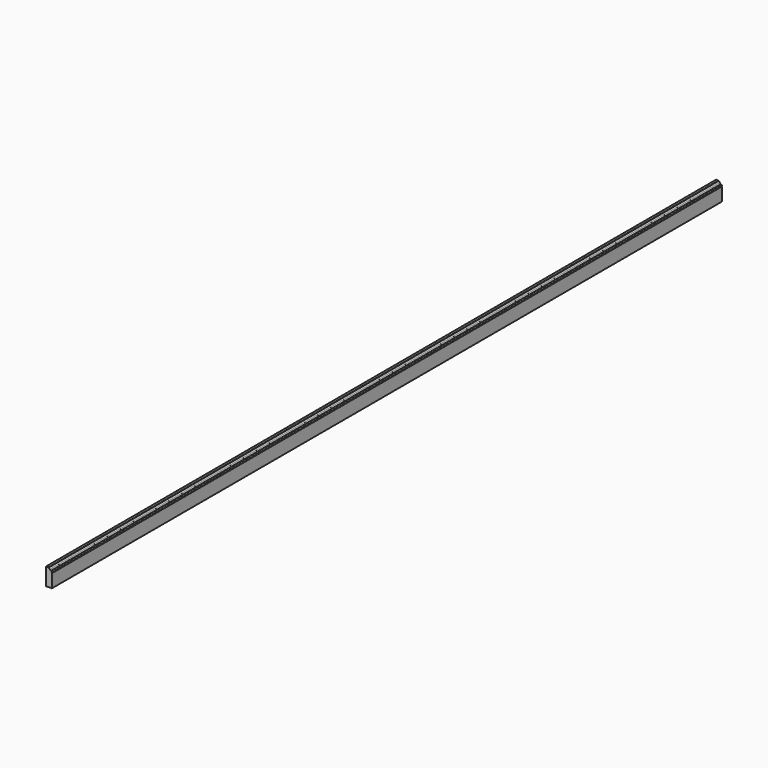
from build123d import *

# Parameters (mm, degrees)
F1_DEPTH      = 1828.8
F1_DEPTH_BACK = 1828.8


with BuildPart() as f1:
    # F0 (on Front) → F1 (new body, two sides)
    with BuildSketch(Plane.XZ) as f1_sk:
        with BuildLine():
            Line((0, 0), (25.4, 0))
            Line((25.4, 0), (25.4, 58.158721))
            Line((25.4, 58.158721), (21.36416, 58.158721))
            Line((21.36416, 58.158721), (21.365102, 58.586036))
            ThreePointArc((21.365102, 58.586036), (25.273677, 61.839096), (21.777011, 65.531343))
            Line((21.777011, 65.531343), (21.767992, 66.80916))
            ThreePointArc((21.767992, 66.80916), (18.677649, 67.679586), (16.430408, 69.972566))
            ThreePointArc((16.430408, 69.972566), (14.209961, 73.201589), (10.504975, 74.478325))
            Line((10.504975, 74.478325), (10.505155, 76.195857))
            Line((10.505155, 76.195857), (0, 76.2))
            Line((0, 76.2), (0, 0))
        make_face()
    extrude(amount=F1_DEPTH)
    extrude(f1_sk.sketch, amount=-F1_DEPTH_BACK)


solid = f1.part
